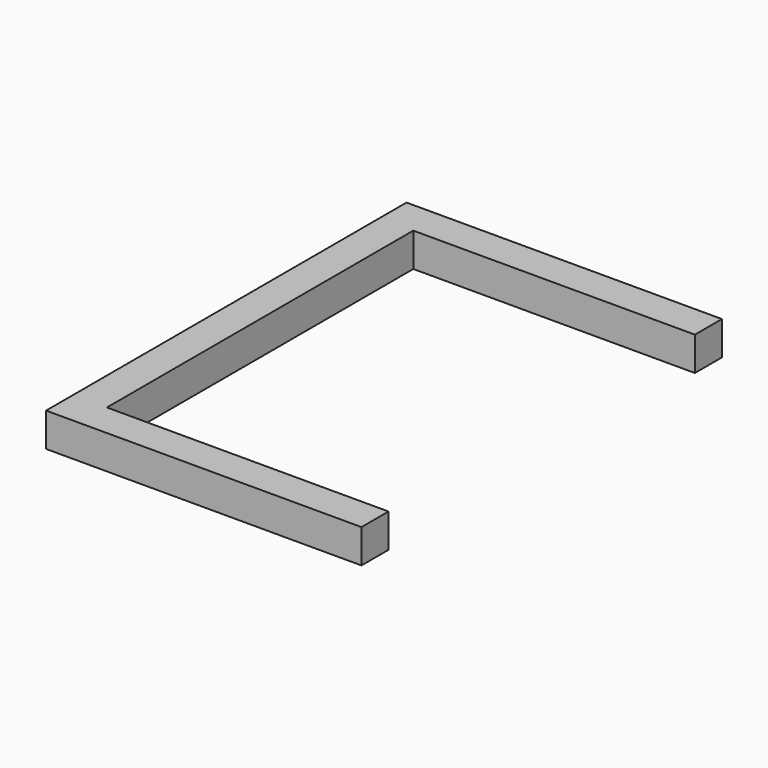
from build123d import *

# Parameters (mm, degrees)
F1_DEPTH = 15


with BuildPart() as f1:
    # F0 (on Top) → F1 (new body, symmetric)
    with BuildSketch(Plane.XY):
        Polygon((-250, 157.5), (0, 157.5), (0, 187.5), (-280, 187.5), (-280, -212.5), (0, -212.5), (0, -182.5), (-250, -182.5), align=None)
    extrude(amount=F1_DEPTH, both=True)


solid = f1.part
